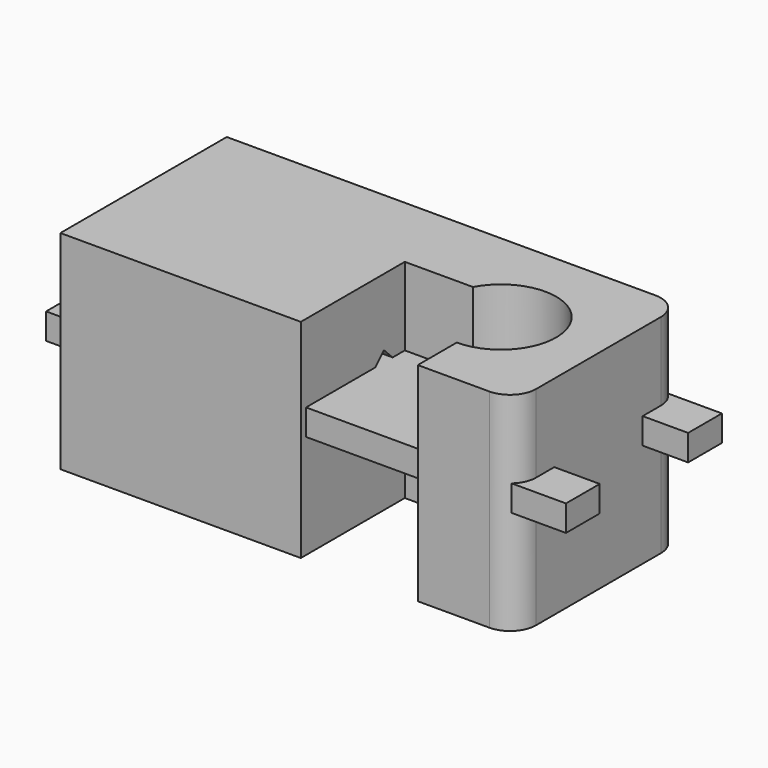
from build123d import *

# Parameters (mm, degrees)
SKETCH_W             = 40
SKETCH_H             = 15
PAD_DEPTH            = 2
POCKET_DEPTH         = 0.001
POCKET_DEPTH_BACK    = 2.001
SKETCH002_W          = 35
SKETCH002_H          = 16
PAD001_DEPTH         = 8
SKETCH003_R          = 4.25
POCKET001_DEPTH      = 8.001
POCKET001_DEPTH_BACK = 8.001
SKETCH004_W          = 9
SKETCH004_H          = 10
POCKET002_DEPTH      = 8.001
POCKET002_DEPTH_BACK = 8.001
FILLET_R             = 2
POCKET003_DEPTH      = 27.501


with BuildPart() as obj1:
    # Sketch → Pad (new body)
    with BuildSketch(Plane.XY):
        with Locations((-9, 0)):
            Rectangle(SKETCH_W, SKETCH_H)
    extrude(amount=PAD_DEPTH)

    # Sketch001 → Pocket (cut, two sides)
    with BuildSketch(Plane.XY) as pocket_sk:
        with BuildLine():
            ThreePointArc((0, 4.25), (-4.25, 0), (0, -4.25))
            Line((0, -4.25), (11, -4.25))
            ThreePointArc((11, -4.25), (15.25, 0), (11, 4.25))
            Line((11, 4.25), (0, 4.25))
        make_face()
    extrude(amount=-POCKET_DEPTH, mode=Mode.SUBTRACT)
    extrude(pocket_sk.sketch, amount=POCKET_DEPTH_BACK, mode=Mode.SUBTRACT)


with BuildPart() as obj2:
    # Sketch002 → Pad001 (new body, symmetric)
    with BuildSketch(Plane.XY):
        with Locations((-10, 0)):
            Rectangle(SKETCH002_W, SKETCH002_H)
    extrude(amount=PAD001_DEPTH, both=True)

    # Sketch003 → Pocket001 (cut, two sides)
    with BuildSketch(Plane.XY) as pocket001_sk:
        Circle(SKETCH003_R)
    extrude(amount=-POCKET001_DEPTH, mode=Mode.SUBTRACT)
    extrude(pocket001_sk.sketch, amount=POCKET001_DEPTH_BACK, mode=Mode.SUBTRACT)

    # Sketch004 → Pocket002 (cut, two sides)
    with BuildSketch(Plane.XY) as pocket002_sk:
        with Locations((-4.5, -3)):
            Rectangle(SKETCH004_W, SKETCH004_H)
    extrude(amount=-POCKET002_DEPTH, mode=Mode.SUBTRACT)
    extrude(pocket002_sk.sketch, amount=POCKET002_DEPTH_BACK, mode=Mode.SUBTRACT)

    # Fillet
    fillet_edges = [obj2.edges().sort_by_distance(p)[0] for p in [
        (7.5, -8, 0),
        (7.5, 8, 0),
    ]]
    fillet(fillet_edges, radius=FILLET_R)

    # Sketch005 → Pocket003 (cut, through all)
    with BuildSketch(Plane.YZ):
        with BuildLine():
            Line((0, 2.828427), (-1.414214, 1.414214))
            ThreePointArc((-1.414214, 1.414214), (0, -2), (1.414214, 1.414214))
            Line((1.414214, 1.414214), (0, 2.828427))
        make_face()
    extrude(amount=-POCKET003_DEPTH, mode=Mode.SUBTRACT)


solid = Compound([obj1.part, obj2.part])
